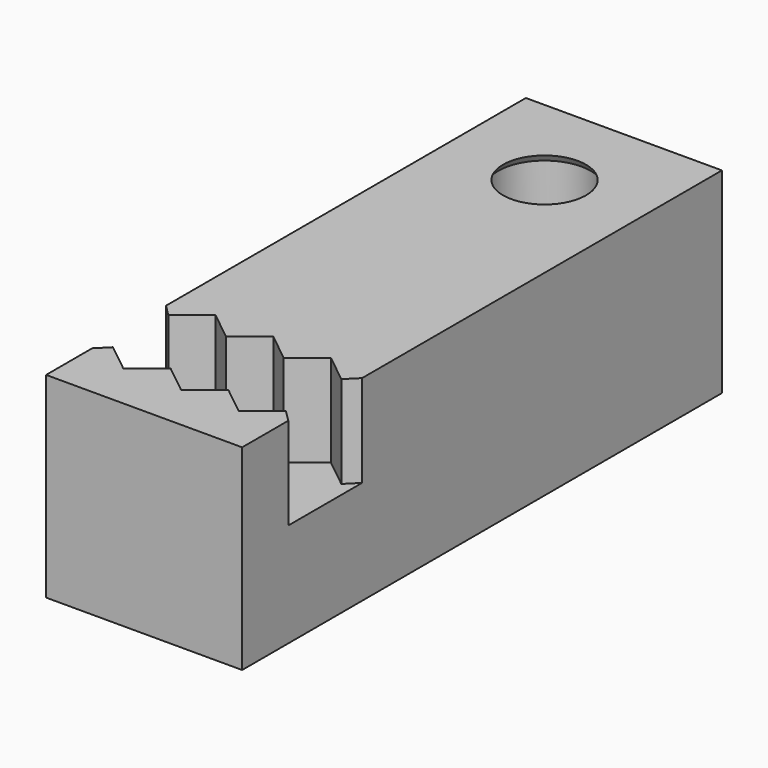
from build123d import *

# Parameters (mm, degrees)
F0_W     = 8.5
F0_H     = 26
F1_DEPTH = 4.25
F5_DEPTH = 4


with BuildPart() as f1:
    # F0 (on Top) → F1 (new body, symmetric)
    with BuildSketch(Plane.XY):
        with Locations((0, 13)):
            Rectangle(F0_W, F0_H)
    extrude(amount=F1_DEPTH, both=True)

    # F2 (on Right) → F3 (revolve, cut)
    with BuildSketch(Plane.YZ):
        Polygon((23.7, 3.95), (23.5, 4.25), (21.7, 4.25), (21.7, 0.35), (23.7, 0.35), align=None)
    revolve(axis=Axis((0, 21.7, 2.3), (0, 0, 1)), mode=Mode.SUBTRACT)

    # F4 (on face) → F5 (cut)
    with BuildSketch(Plane.XY.offset(4.25)):
        Polygon((-3.75, 6), (-4.25, 6.5), (-4.25, 2.5), (-3.75, 3), (-2.5, 2), (-1.25, 3), (0, 2), (1.25, 3), (2.5, 2), (3.75, 3), (4.25, 2.5), (4.25, 6.5), (3.75, 6), (2.5, 7), (1.25, 6), (0, 7), (-1.25, 6), (-2.5, 7), align=None)
    extrude(amount=-F5_DEPTH, mode=Mode.SUBTRACT)


solid = f1.part
